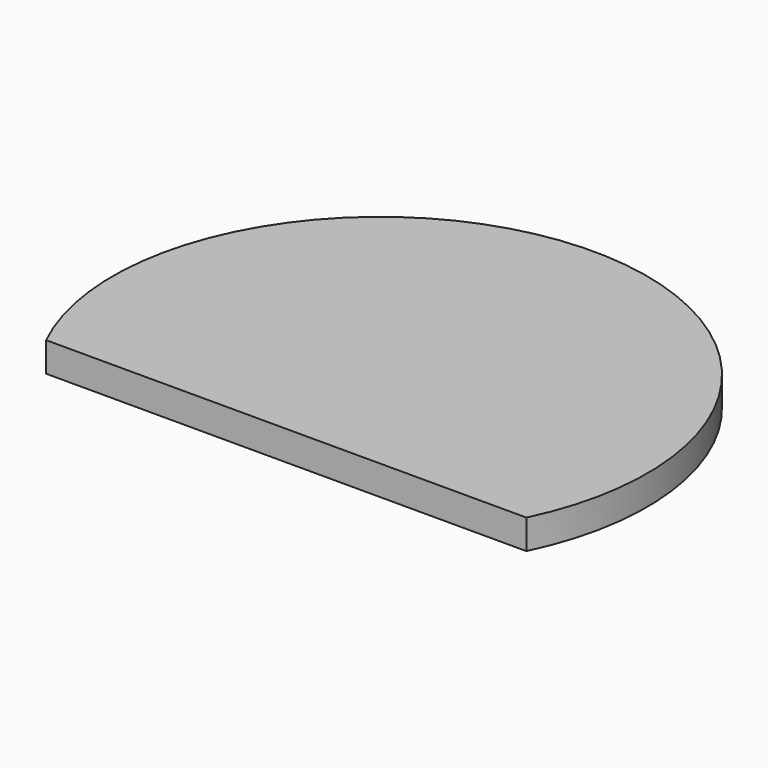
from build123d import *

# Parameters (mm, degrees)
F1_DEPTH = 5.08


with BuildPart() as f1:
    # F0 (on Top) → F1 (new body)
    with BuildSketch(Plane.XY):
        with BuildLine():
            ThreePointArc((-53.812096, -10.414008), (-12.537096, 33.840929), (28.737904, -10.414008))
            Line((28.737904, -10.414008), (28.558988, -27.658846))
            ThreePointArc((28.558988, -27.658846), (-12.716012, 38.385302), (-53.991012, -27.658846))
            Line((-53.991012, -27.658846), (-53.812096, -10.414008))
        make_face()
        with BuildLine():
            Line((28.558988, -27.658846), (28.737904, -10.414008))
            ThreePointArc((28.737904, -10.414008), (-12.537096, 33.840929), (-53.812096, -10.414008))
            Line((-53.812096, -10.414008), (-53.991012, -27.658846))
            Line((-53.991012, -27.658846), (28.558988, -27.658846))
        make_face()
    extrude(amount=F1_DEPTH)


solid = f1.part
